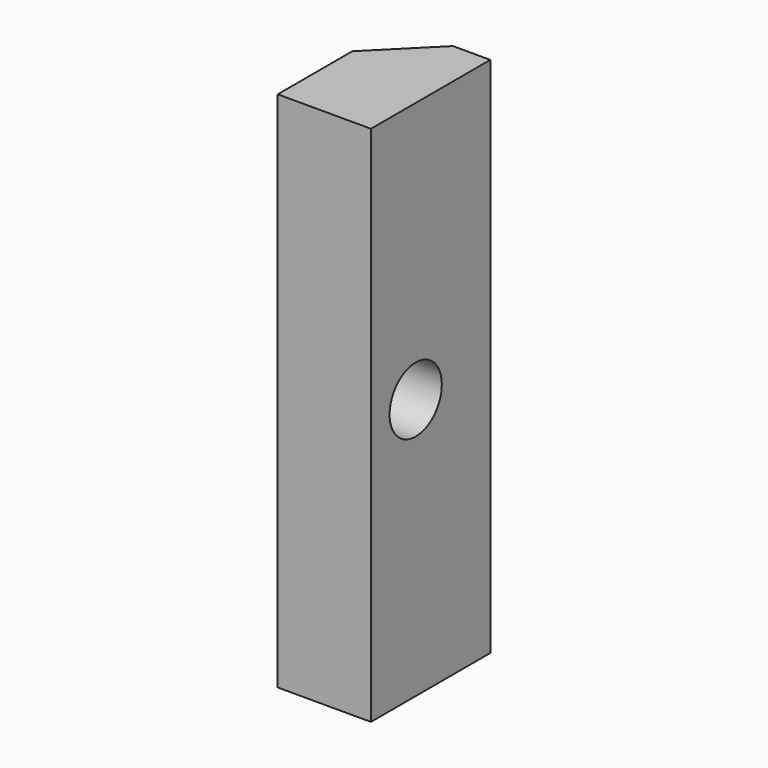
from build123d import *

# Parameters (mm, degrees)
CYLINDER_R     = 1.75
CYLINDER_DEPTH = 5
EXTRUDE_DEPTH  = 28


with BuildPart() as cylindre:
    # Cylinder → Cylinder (new body)
    with BuildSketch(Plane(origin=(0, 3, 14), x_dir=(0, 0, -1), z_dir=(1, 0, 0))):
        Circle(CYLINDER_R)
    extrude(amount=CYLINDER_DEPTH)


with BuildPart() as cut:
    # Sketch → Extrude (new body)
    with BuildSketch(Plane.XY):
        Polygon((0, 0), (0, 5), (3, 8), (5, 8), (5, 0), align=None)
    extrude(amount=EXTRUDE_DEPTH)

    # Cut: cut Cylindre
    add(cylindre.part, mode=Mode.SUBTRACT)


solid = cut.part
